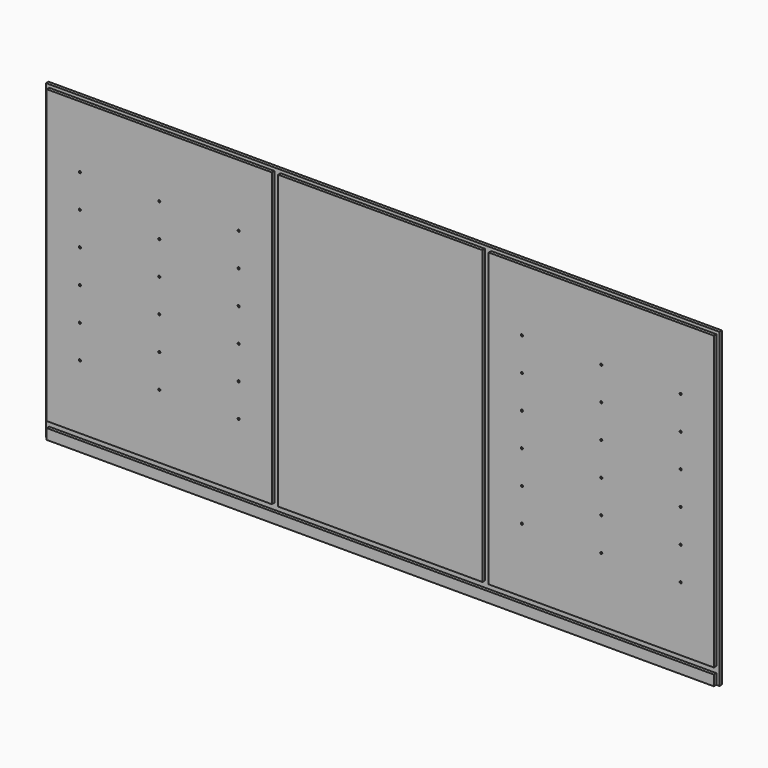
from build123d import *

# Parameters (mm, degrees)
F0_W     = 2063.75
F0_H     = 955.675
F2_DEPTH = 9.525
F1_W     = 690.0291
F1_H     = 895.35
F1_W_2   = 2044.7
F1_H_2   = 31.75
F1_W_3   = 626.5418
F3_DEPTH = 9.525
F5_D     = 6.35
F5_DEPTH = 6.35
F5_TIP   = 1.9077324654


with BuildPart() as f2:
    # F0 (on Front) → F2 (new body)
    with BuildSketch(Plane.XZ):
        Rectangle(F0_W, F0_H)
    extrude(amount=-F2_DEPTH)

    # F1 (on Front) → F3 (join)
    with BuildSketch(Plane.XZ):
        with Locations((-677.33545, 20.6375)):
            Rectangle(F1_W, F1_H)
        with Locations((677.33545, 20.6375)):
            Rectangle(F1_W, F1_H)
        with Locations((0, -461.9625)):
            Rectangle(F1_W_2, F1_H_2)
        with Locations((0, 20.6375)):
            Rectangle(F1_W_3, F1_H)
    extrude(amount=F3_DEPTH)

    # F5
    with Locations(Plane.XZ.offset(9.525)):
        with Locations((-920.75, 74.6125), (-677.33545, 277.8125), (-433.9209, -128.5875), (-920.75, -230.1875), (-433.9209, -26.9875), (-677.33545, -26.9875), (-433.9209, 74.6125), (-920.75, 277.8125), (-920.75, -26.9875), (-433.9209, 277.8125), (-433.9209, -230.1875), (-433.9209, 176.2125), (-677.33545, -230.1875), (-920.75, -128.5875), (-677.33545, 74.6125), (-677.33545, 176.2125), (-920.75, 176.2125), (-677.33545, -128.5875), (677.33545, -128.5875), (677.33545, 176.2125), (433.9209, 277.8125), (920.75, 277.8125), (920.75, -230.1875), (677.33545, -230.1875), (920.75, 74.6125), (920.75, -26.9875), (920.75, -128.5875), (677.33545, 74.6125), (677.33545, 277.8125), (433.9209, -230.1875), (433.9209, 176.2125), (433.9209, -128.5875), (677.33545, -26.9875), (433.9209, 74.6125), (433.9209, -26.9875), (920.75, 176.2125)):
            Hole(F5_D / 2, depth=F5_DEPTH)
            with Locations((0, 0, -(F5_DEPTH + F5_TIP / 2))):  # 118° drill point
                Cone(0, F5_D / 2, F5_TIP, mode=Mode.SUBTRACT)


solid = f2.part
